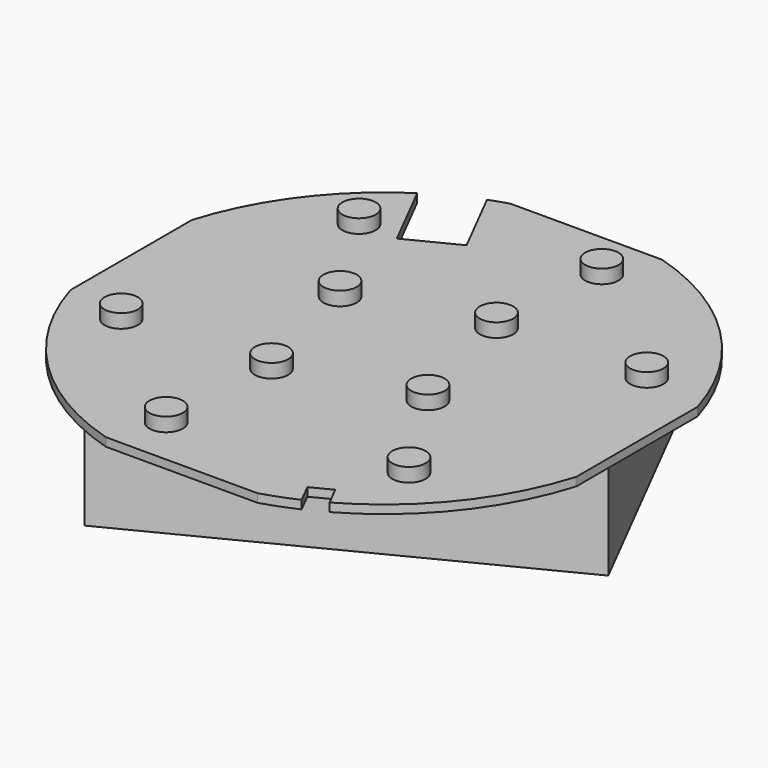
from build123d import *

# Parameters (mm, degrees)
F0_R      = 30.1625
F1_DEPTH  = 0.9652
F2_W      = 76.2
F2_H      = 76.2
F2_W_2    = 57.785
F2_H_2    = 57.785
F3_DEPTH  = 0.9662
F4_R      = 1.905
F5_DEPTH  = 1.5748
F6_R      = 1.905
F7_DEPTH  = 1.5748
F9_DEPTH  = 25.4
F11_DEPTH = 25.4
F13_DEPTH = 10.922


with BuildPart() as f1:
    # F0 (on Top) → F1 (new body)
    with BuildSketch(Plane.XY):
        Circle(F0_R)
    extrude(amount=F1_DEPTH)

    # F2 (on Top) → F3 (cut, through all)
    with BuildSketch(Plane.XY):
        Rectangle(F2_W, F2_H)
        Rectangle(F2_W_2, F2_H_2, mode=Mode.SUBTRACT)
    extrude(amount=F3_DEPTH, mode=Mode.SUBTRACT)

    # F4 (on face) → F5 (join)
    with BuildSketch(Plane.XY.offset(0.9652)):
        with Locations((-9.332556, 5.388154)):
            Circle(F4_R)
        with Locations((5.388154, 9.332556)):
            Circle(F4_R)
        with Locations((9.332556, -5.388154)):
            Circle(F4_R)
        with Locations((-5.388154, -9.332556)):
            Circle(F4_R)
    extrude(amount=F5_DEPTH)

    # F6 (on face) → F7 (join)
    with BuildSketch(Plane.XY.offset(0.9652)):
        with Locations((6.245304, 23.30779)):
            Circle(F6_R)
        with Locations((-16.749408, 17.369924)):
            Circle(F6_R)
        with Locations((-6.245304, -23.30779)):
            Circle(F6_R)
        with Locations((16.749408, -17.369924)):
            Circle(F6_R)
        with Locations((21.869207, 10.197779)):
            Circle(F6_R)
        with Locations((-21.869207, -10.197779)):
            Circle(F6_R)
    extrude(amount=F7_DEPTH)

    # F8 (on face) → F9 (cut)
    with BuildSketch(Plane.XY.offset(0.9652)):
        Polygon((11.396703, -25.19386), (12.548755, -27.457568), (14.812463, -26.305517), (13.660412, -24.041808), align=None)
    extrude(amount=-F9_DEPTH, mode=Mode.SUBTRACT)

    # F10 (on face) → F11 (cut)
    with BuildSketch(Plane.XY.offset(0.9652)):
        Polygon((-10.851198, 28.321521), (-16.510447, 25.441348), (-12.363614, 17.29324), (-6.704365, 20.173413), align=None)
    extrude(amount=-F11_DEPTH, mode=Mode.SUBTRACT)

    # F12 (on face) → F13 (join)
    with BuildSketch(Plane(origin=(0, 0, 0), x_dir=(1, 0, 0), z_dir=(0, 0, -1))):
        Polygon((-28.784711, -3.94695), (13.750207, -25.594331), (28.784711, 3.94695), (-13.750207, 25.594331), align=None)
    extrude(amount=F13_DEPTH)


solid = f1.part
